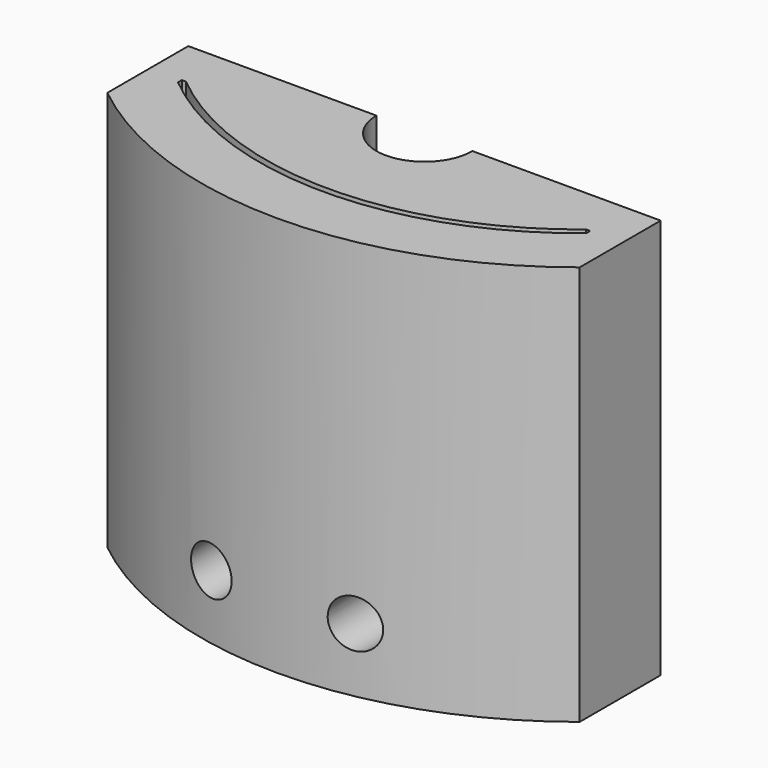
from build123d import *

# Parameters (mm, degrees)
F0_W     = 25
F0_H     = 3
F1_DEPTH = 25
F3_DEPTH = 25
F4_R     = 1.5
F5_DEPTH = 25
F8_DEPTH = 25


with BuildPart() as f1:
    # F0 (on Top) → F1 (new body)
    with BuildSketch(Plane.XY):
        with Locations((12.5, 1.5)):
            Rectangle(F0_W, F0_H)
        with BuildLine():
            Line((25, 0), (0, 0))
            ThreePointArc((0, 0), (12.5, -4.5), (25, 0))
        make_face()
    extrude(amount=F1_DEPTH)


with BuildPart() as f3:
    # F2 (on face) → F3 (new body)
    with BuildSketch(Plane.XY.offset(25)):
        Polygon((-2.254958, -0.308215), (-0.254958, -0.308215), (-0.254958, 0), (0, 0), (0, 3), (-2.254958, 3), align=None)
        with BuildLine():
            ThreePointArc((25.254958, -0.308215), (12.5, -4.9), (-0.254958, -0.308215))
            Line((-0.254958, -0.308215), (-2.254958, -0.308215))
            Line((-2.254958, -0.308215), (-2.254958, -3.321898))
            ThreePointArc((-2.254958, -3.321898), (12.5, -8.5), (27.254958, -3.321898))
            Line((27.254958, -3.321898), (27.254958, -0.308215))
            Line((27.254958, -0.308215), (25.254958, -0.308215))
        make_face()
        Polygon((25.254958, 0), (25.254958, -0.308215), (27.254958, -0.308215), (27.254958, 3), (25, 3), (25, 0), align=None)
    extrude(amount=-F3_DEPTH)


with BuildPart() as f5_tool:
    # F4 (on face) → F5 (new body)
    with BuildSketch(Plane(origin=(0, 3, 0), x_dir=(-1, 0, 0), z_dir=(0, 1, 0))):
        with Locations((-17, 4)):
            Circle(F4_R)
        with Locations((-8, 4)):
            Circle(F4_R)
    extrude(amount=-F5_DEPTH)


with BuildPart() as f1_1:
    add(f1.part)

    # F5: cut by f5_tool
    add(f5_tool.part, mode=Mode.SUBTRACT)


with BuildPart() as f3_1:
    add(f3.part)

    # F5: cut by f5_tool
    add(f5_tool.part, mode=Mode.SUBTRACT)

    # F6: union F1
    add(f1_1.part)

    # F7 (on face) → F8 (cut)
    with BuildSketch(Plane(origin=(0, 0, 0), x_dir=(1, 0, 0), z_dir=(0, 0, -1))):
        with BuildLine():
            Line((12.5, 0), (12.5, -3))
            Line((12.5, -3), (15.5, -3))
            ThreePointArc((15.5, -3), (14.62132, -0.87868), (12.5, 0))
        make_face()
        with BuildLine():
            Line((9.5, -3), (12.5, -3))
            Line((12.5, -3), (12.5, 0))
            ThreePointArc((12.5, 0), (10.37868, -0.87868), (9.5, -3))
        make_face()
    extrude(amount=-F8_DEPTH, mode=Mode.SUBTRACT)


solid = f3_1.part
